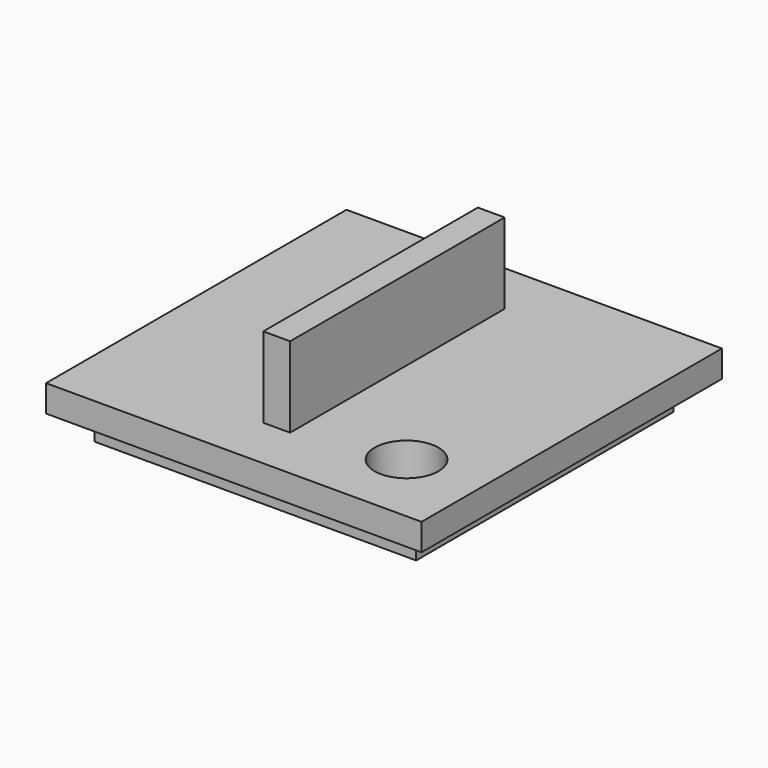
from build123d import *

# Parameters (mm, degrees)
F0_W     = 88.9
F0_H     = 88.9
F1_DEPTH = 6.35
F2_W     = 76.2
F2_H     = 76.2
F3_DEPTH = 6.35
F4_W     = 6.35
F4_H     = 63.5
F5_DEPTH = 19.05
F6_R     = 7.56699
F7_DEPTH = 25.4


with BuildPart() as f1:
    # F0 (on Top) → F1 (new body)
    with BuildSketch(Plane.XY):
        Rectangle(F0_W, F0_H)
    extrude(amount=F1_DEPTH)

    # F2 (on face) → F3 (join)
    with BuildSketch(Plane(origin=(0, 0, 0), x_dir=(1, 0, 0), z_dir=(0, 0, -1))):
        Rectangle(F2_W, F2_H)
    extrude(amount=F3_DEPTH)

    # F4 (on face) → F5 (join)
    with BuildSketch(Plane.XY.offset(6.35)):
        Rectangle(F4_W, F4_H)
    extrude(amount=F5_DEPTH)

    # F6 (on face) → F7 (cut)
    with BuildSketch(Plane.XY.offset(6.35)):
        with Locations((26.67, -26.67)):
            Circle(F6_R)
    extrude(amount=-F7_DEPTH, mode=Mode.SUBTRACT)


solid = f1.part
